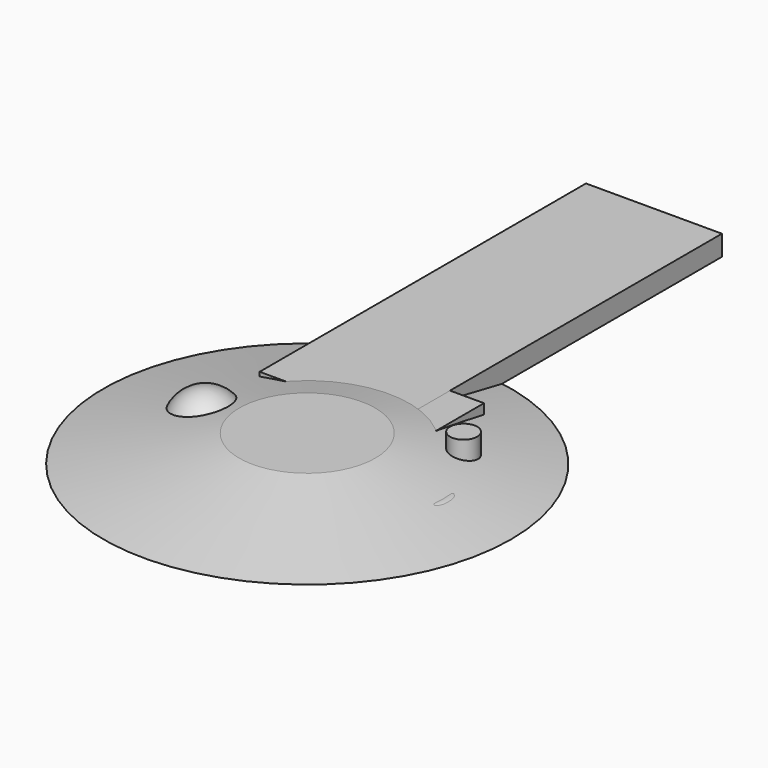
from build123d import *

# Parameters (mm, degrees)
BOX_W          = 10
BOX_H          = 10
BOX_DEPTH      = 3
BOX001_W       = 20
BOX001_H       = 60
BOX001_DEPTH   = 3
CYLINDER_R     = 2
CYLINDER_DEPTH = 5
TORUS_R        = 2


with BuildPart() as cube:
    # Box → Box (new body)
    with BuildSketch(Plane(origin=(15, 0, 0), x_dir=(1, 0, 0), z_dir=(0, 0, 1))):
        with Locations((5, 5)):
            Rectangle(BOX_W, BOX_H)
    extrude(amount=BOX_DEPTH)


with BuildPart() as cube001:
    # Box001 → Box001 (new body)
    with BuildSketch(Plane.XY):
        with Locations((10, 30)):
            Rectangle(BOX001_W, BOX001_H)
    extrude(amount=BOX001_DEPTH)


with BuildPart() as cylinder:
    # Cylinder → Cylinder (new body)
    with BuildSketch(Plane(origin=(30, 0, 0), x_dir=(1, 0, 0), z_dir=(0, 0, 1))):
        Circle(CYLINDER_R)
    extrude(amount=CYLINDER_DEPTH)


with BuildPart() as sphere:
    # Sphere → Sphere (revolve)
    with BuildSketch(Plane.XZ.offset(10)):
        with BuildLine():
            ThreePointArc((0, -5), (5, 0), (0, 5))
            Line((0, 5), (0, -5))
        make_face()
    revolve(axis=Axis((0, -10, 0), (0, 0, 1)))


with BuildPart() as cone:
    # Cone → Cone (revolve)
    with BuildSketch(Plane(origin=(15, -10, 0), x_dir=(1, 0, 0), z_dir=(0, -1, 0))):
        Polygon((0, 0), (30, 0), (10, 4), (0, 4), align=None)
    revolve(axis=Axis((15, -10, 0), (0, 0, 1)))


with BuildPart() as torus:
    # Torus → Torus (revolve)
    with BuildSketch(Plane(origin=(30, -10, 0), x_dir=(1, 0, 0), z_dir=(0, -1, 0))):
        with Locations((5, 0)):
            Circle(TORUS_R)
    revolve(axis=Axis((30, -10, 0), (0, 0, 1)))


solid = Compound([cube.part, cube001.part, cylinder.part, sphere.part, cone.part, torus.part])
